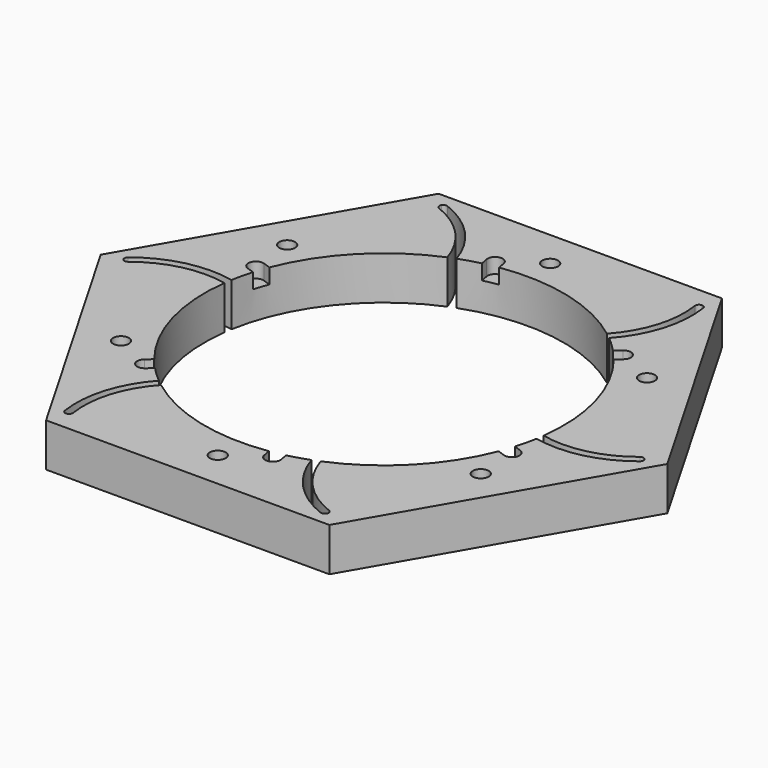
from build123d import *

# Parameters (mm, degrees)
F2_START      = 2
F0_R          = 4.2
F0_R_2        = 95
F2_DEPTH      = 23
F4_DEPTH      = 35
F4_DEPTH_BACK = 10
F5_COUNT      = 6
F8_DEPTH      = 8
F8_DEPTH_BACK = 10
F9_COUNT      = 6
F12_D         = 5
F12_DEPTH     = 12
F12_START     = 2
F12_TIP       = 1.5021515476


with BuildPart() as f2:
    # F0 (on Top) → F2 (new body)
    with BuildSketch(Plane.XY.offset(F2_START)):
        Polygon((75, 129.9038105677), (-75, 129.9038105677), (-150, 0), (-75, -129.9038105677), (75, -129.9038105677), (150, 0), align=None)
        with Locations((-95.2627944163, -55)):
            Circle(F0_R, mode=Mode.SUBTRACT)
        with Locations((0, -110)):
            Circle(F0_R, mode=Mode.SUBTRACT)
        with Locations((95.2627944163, -55)):
            Circle(F0_R, mode=Mode.SUBTRACT)
        with Locations((-95.2627944163, 55)):
            Circle(F0_R, mode=Mode.SUBTRACT)
        Circle(F0_R_2, mode=Mode.SUBTRACT)
        with Locations((95.2627944163, 55)):
            Circle(F0_R, mode=Mode.SUBTRACT)
        with Locations((0, 110)):
            Circle(F0_R, mode=Mode.SUBTRACT)
    extrude(amount=F2_DEPTH)


with BuildPart() as f4:
    # F3 (on Top) → F4 (new body, two sides)
    with BuildSketch(Plane.XY) as f4_sk:
        with BuildLine():
            ThreePointArc((-34.5435296861, 77.6643068393), (-32.6327882373, 78.4863117484), (-30.7025049427, 79.2613158498))
            ThreePointArc((-30.7025049427, 79.2613158498), (-41.9019572207, 106.1559598637), (-65.2675230757, 123.5571075336))
            ThreePointArc((-65.2675230757, 123.5571075336), (-66.656996648, 123.5810891624), (-67.7266746593, 122.6939584625))
            ThreePointArc((-67.7266746593, 122.6939584625), (-67.8817545517, 121.0315856662), (-66.7217246277, 119.8308093913))
            ThreePointArc((-66.7217246277, 119.8308093913), (-44.7195832857, 103.2599332678), (-34.5435296861, 77.6643068393))
        make_face()
    extrude(amount=F4_DEPTH)
    extrude(f4_sk.sketch, amount=-F4_DEPTH_BACK)


with BuildPart() as f5_1:
    # F5: instance of F4
    add(f4.part.rotate(Axis((0, 0, -0.1854561269), (0, 0, 1)), 1 * 360 / F5_COUNT))


with BuildPart() as f5_2:
    # F5: instance of F4
    add(f4.part.rotate(Axis((0, 0, -0.1854561269), (0, 0, 1)), 2 * 360 / F5_COUNT))


with BuildPart() as f5_3:
    # F5: instance of F4
    add(f4.part.rotate(Axis((0, 0, -0.1854561269), (0, 0, 1)), 3 * 360 / F5_COUNT))


with BuildPart() as f5_4:
    # F5: instance of F4
    add(f4.part.rotate(Axis((0, 0, -0.1854561269), (0, 0, 1)), 4 * 360 / F5_COUNT))


with BuildPart() as f5_5:
    # F5: instance of F4
    add(f4.part.rotate(Axis((0, 0, -0.1854561269), (0, 0, 1)), 5 * 360 / F5_COUNT))


with BuildPart() as f2_1:
    add(f2.part)

    # F6: cut F4, F5_5, F5_4, F5_3, F5_2, F5_1
    add(f4.part, mode=Mode.SUBTRACT)
    add(f5_5.part, mode=Mode.SUBTRACT)
    add(f5_4.part, mode=Mode.SUBTRACT)
    add(f5_3.part, mode=Mode.SUBTRACT)
    add(f5_2.part, mode=Mode.SUBTRACT)
    add(f5_1.part, mode=Mode.SUBTRACT)

    # F9: F8 ×6 about axis
    f9_axis = Axis((0, 0, -0.1854561269), (0, 0, 1))


with BuildPart() as f8:
    # F7 (on face) → F8 (new body, two sides)
    with BuildSketch(Plane.XY.offset(25)) as f8_sk:
        with BuildLine():
            ThreePointArc((-14.9635818085, 97.9443271428), (-16.6533189284, 100.4972414515), (-19.6533265238, 101.1075998951))
            ThreePointArc((-19.6533265238, 101.1075998951), (-22.2062408325, 99.4178627752), (-22.8165992761, 96.4178551798))
            Line((-22.8165992761, 96.4178551798), (-20.6971664161, 85.5143183486))
            Line((-20.6971664161, 85.5143183486), (-16.7706576823, 86.2775543301))
            Line((-16.7706576823, 86.2775543301), (-12.8441489485, 87.0407903117))
            Line((-12.8441489485, 87.0407903117), (-14.9635818085, 97.9443271428))
        make_face()
    extrude(amount=-F8_DEPTH)
    extrude(f8_sk.sketch, amount=F8_DEPTH_BACK)


with BuildPart() as f2_2:
    add(f2_1.part)
    for i in range(1, F9_COUNT):
        add(f8.part.rotate(f9_axis, i * 360 / F9_COUNT), mode=Mode.SUBTRACT)

    # F9#seed: cut F8
    add(f8.part, mode=Mode.SUBTRACT)

    # F12
    # its depths count from where the whole tool has entered the part; down to there all is cleared
    with Locations(Plane(origin=(0, 0, 0), x_dir=(1, 0, 0), z_dir=(0, 0, -1)).offset(-F12_START)):
        with Locations((-85.2627944163, -72.3205080757), (20, -110), (105.2627944163, -37.6794919243), (85.2627944163, 72.3205080757), (-20, 110), (-105.2627944163, 37.6794919243)):
            Hole(F12_D / 2, depth=F12_DEPTH)
            with Locations((0, 0, -(F12_DEPTH + F12_TIP / 2))):  # 118° drill point
                Cone(0, F12_D / 2, F12_TIP, mode=Mode.SUBTRACT)


solid = f2_2.part
